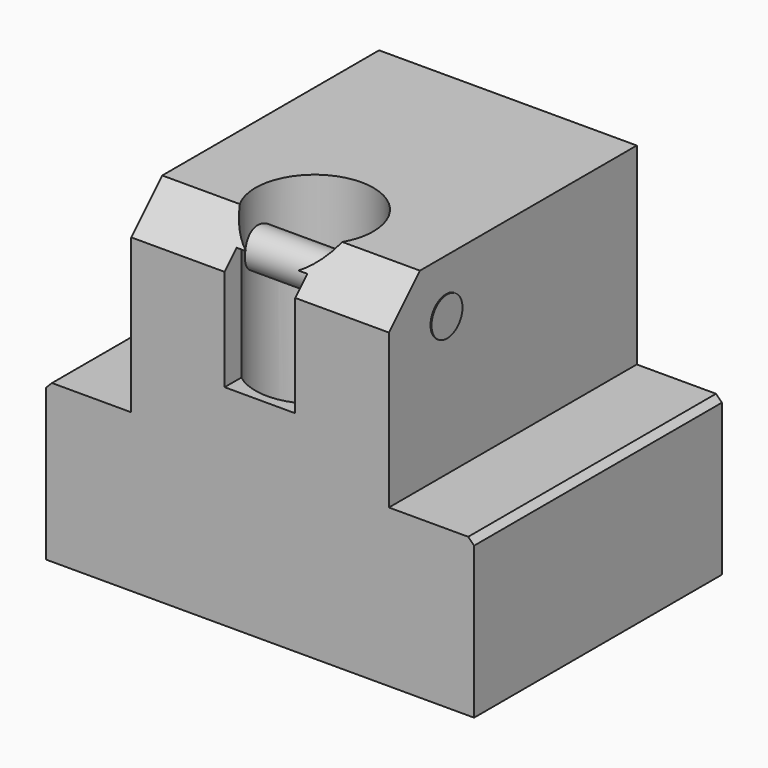
from build123d import *

# Parameters (mm, degrees)
F0_W      = 33.27621
F0_H      = 40.005
F1_DEPTH  = 45.212
F0_W_2    = 10.9982
F2_DEPTH  = 20.32
F3_SIZE   = 5.0038
F4_R      = 7.62
F5_DEPTH  = 62.738
F6_R      = 2.5019
F7_DEPTH  = 16.764
F8_SIZE   = 0.762
F9_SIZE   = 0.762
F10_W     = 9.116596
F10_H     = 15.0622
F11_DEPTH = 3.048


with BuildPart() as f1:
    # F0 (on Top) → F1 (new body)
    with BuildSketch(Plane.XY):
        Rectangle(F0_W, F0_H)
    extrude(amount=F1_DEPTH)

    # F0 (on Top) → F2 (join)
    with BuildSketch(Plane.XY):
        with Locations((-22.137205, 0)):
            Rectangle(F0_W_2, F0_H)
        with Locations((22.137205, 0)):
            Rectangle(F0_W_2, F0_H)
    extrude(amount=F2_DEPTH)

    # F3
    f3_edges = [f1.edges().sort_by_distance(p)[0] for p in [
        (0, -20.0025, 45.212),
    ]]
    chamfer(f3_edges, length=F3_SIZE)

    # F4 (on Top) → F5 (cut)
    with BuildSketch(Plane.XY):
        with Locations((0, -11.22532)):
            Circle(F4_R)
    extrude(amount=F5_DEPTH, mode=Mode.SUBTRACT)

    # F6 (on Right) → F7 (join, symmetric)
    with BuildSketch(Plane.YZ):
        with Locations((-10.78459, 38.329016)):
            Circle(F6_R)
    extrude(amount=F7_DEPTH, both=True)

    # F8
    f8_edges = [f1.edges().sort_by_distance(p)[0] for p in [
        (-27.636305, 0, 20.32),
    ]]
    chamfer(f8_edges, length=F8_SIZE)

    # F9
    f9_edges = [f1.edges().sort_by_distance(p)[0] for p in [
        (27.636305, 0, 20.32),
    ]]
    chamfer(f9_edges, length=F9_SIZE)

    # F10 (on face) → F11 (cut)
    with BuildSketch(Plane.XZ.offset(20.0025)):
        with Locations((-0.019252, 34.627516)):
            Rectangle(F10_W, F10_H)
    extrude(amount=-F11_DEPTH, mode=Mode.SUBTRACT)


solid = f1.part
